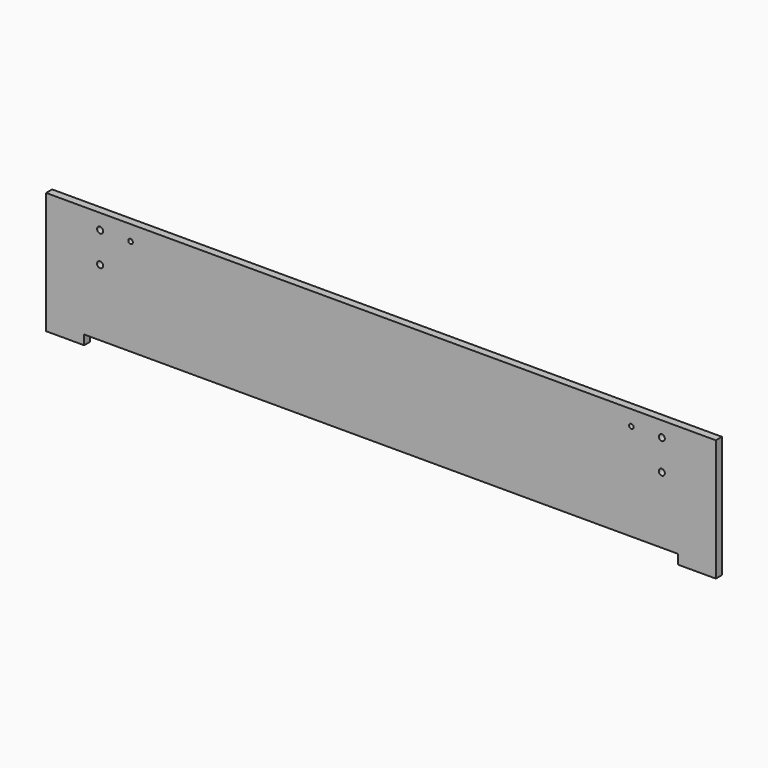
from build123d import *

# Parameters (mm, degrees)
F0_R     = 4
F0_R_2   = 3
F1_DEPTH = 10


with BuildPart() as f1:
    # F0 (on Front) → F1 (new body)
    with BuildSketch(Plane.XZ):
        Polygon((390, -80), (440, -80), (440, 80), (-440, 80), (-440, -80), (-390, -80), (-390, -67.5), (390, -67.5), align=None)
        with Locations((-369, 20)):
            Circle(F0_R, mode=Mode.SUBTRACT)
        with Locations((-369, 60)):
            Circle(F0_R, mode=Mode.SUBTRACT)
        with Locations((-329, 60)):
            Circle(F0_R_2, mode=Mode.SUBTRACT)
        with Locations((369, 20)):
            Circle(F0_R, mode=Mode.SUBTRACT)
        with Locations((329, 60)):
            Circle(F0_R_2, mode=Mode.SUBTRACT)
        with Locations((369, 60)):
            Circle(F0_R, mode=Mode.SUBTRACT)
    extrude(amount=F1_DEPTH)


solid = f1.part
